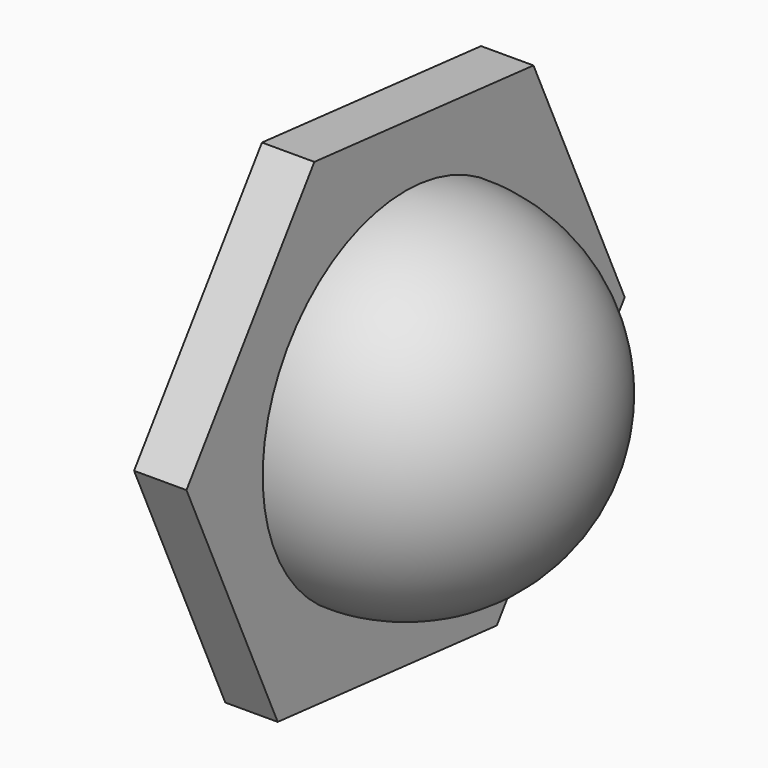
from build123d import *

# Parameters (mm, degrees)
F1_ANGLE = 180
F3_DEPTH = 2.2


with BuildPart() as f1:
    # F0 (on Right) → F1 (revolve)
    with BuildSketch(Plane.YZ):
        with BuildLine():
            ThreePointArc((0, -7.5), (7.5, 0), (0, 7.5))
            Line((0, 7.5), (0, -7.5))
        make_face()
    revolve(axis=Axis((0, 0, 0), (0, 0, -1)), revolution_arc=F1_ANGLE)

    # F2 (on Right) → F3 (join)
    with BuildSketch(Plane.YZ):
        Polygon((-4.788409, 10.514467), (-11.5, 1.110349), (-6.711591, -9.404118), (4.788409, -10.514467), (11.5, -1.110349), (6.711591, 9.404118), align=None)
    extrude(amount=-F3_DEPTH)


solid = f1.part
